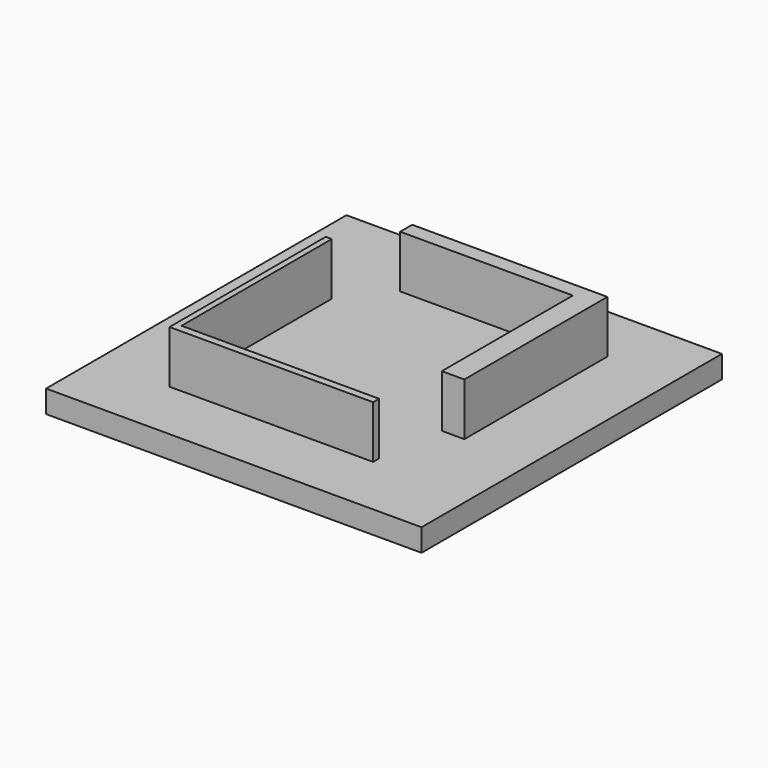
from build123d import *

# Parameters (mm, degrees)
F1_DEPTH = 5
F0_W     = 25
F0_H     = 25
F2_DEPTH = 1.5
F3_DEPTH = 5


with BuildPart() as f1:
    # F0 (on Top) → F1 (new body)
    with BuildSketch(Plane.XY):
        Polygon((-4.457476, 8.541189), (-17.457476, 8.541189), (-17.457476, 7.541189), (-5.957476, 7.541189), (-5.957476, -3.366469), (-4.457476, -3.366469), align=None)
    extrude(amount=F1_DEPTH)

    # F0 (on Top) → F2 (join)
    with BuildSketch(Plane.XY):
        with Locations((-12.5, 0)):
            Rectangle(F0_W, F0_H)
        Polygon((-20.116894, 4.669981), (-19.716894, 4.669981), (-19.716894, -7.830019), (-6.561746, -7.830019), (-6.561746, -8.330019), (-20.116894, -8.330019), align=None, mode=Mode.SUBTRACT)
        Polygon((-17.457476, 7.541189), (-17.457476, 8.541189), (-4.457476, 8.541189), (-4.457476, -3.366469), (-5.957476, -3.366469), (-5.957476, 7.541189), align=None, mode=Mode.SUBTRACT)
    extrude(amount=F2_DEPTH)

    # F0 (on Top) → F3 (join)
    with BuildSketch(Plane.XY):
        Polygon((-19.716894, -7.830019), (-19.716894, 4.669981), (-20.116894, 4.669981), (-20.116894, -8.330019), (-6.561746, -8.330019), (-6.561746, -7.830019), align=None)
    extrude(amount=F3_DEPTH)


solid = f1.part
